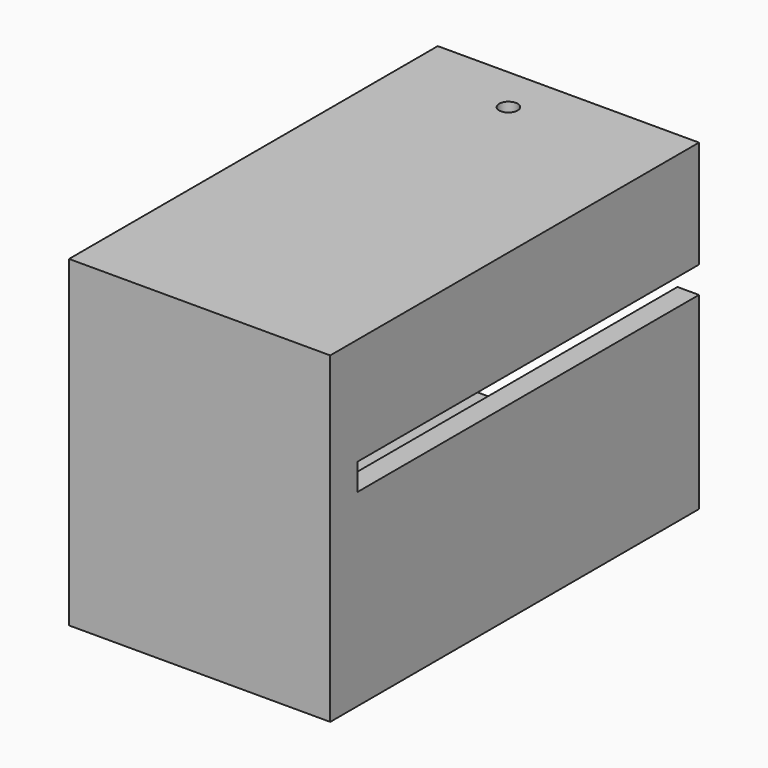
from build123d import *

# Parameters (mm, degrees)
SKETCH012_W     = 17
SKETCH012_H     = 21
PAD009_DEPTH    = 30
SKETCH013_W     = 13.1
SKETCH013_H     = 17
POCKET001_DEPTH = 26.7
SKETCH014_W     = 11.5
SKETCH014_H     = 1.2
SKETCH014_W_2   = 3.205285
SKETCH014_H_2   = 1.736194
POCKET002_DEPTH = 27.8
SKETCH016_R     = 0.6
POCKET003_DEPTH = 27
SKETCH022_W     = 0.6
SKETCH022_H     = 3
POCKET005_DEPTH = 3


with BuildPart() as part:
    # Sketch012 → Pad009 (new body)
    with BuildSketch(Plane.XZ):
        with Locations((1.5, 2)):
            Rectangle(SKETCH012_W, SKETCH012_H)
    extrude(amount=PAD009_DEPTH)

    # Sketch013 (on Face5 of Pad009) → Pocket001 (cut)
    with BuildSketch(Plane(origin=(0, 0, 0), x_dir=(1, 0, 0), z_dir=(0, 1, 0))):
        with Locations((2.05, -2)):
            Rectangle(SKETCH013_W, SKETCH013_H)
    extrude(amount=-POCKET001_DEPTH, mode=Mode.SUBTRACT)

    # Sketch014 (on Face4 of Pocket001) → Pocket002 (cut)
    with BuildSketch(Plane(origin=(0, 0, 0), x_dir=(1, 0, 0), z_dir=(0, 1, 0))):
        Rectangle(SKETCH014_W, SKETCH014_H)
        with Locations((9.189982, -4.640042)):
            Rectangle(SKETCH014_W_2, SKETCH014_H_2)
    extrude(amount=-POCKET002_DEPTH, mode=Mode.SUBTRACT)

    # Sketch016 (on Face6 of Pocket002) → Pocket003 (cut)
    with BuildSketch(Plane(origin=(0, 0, -8.5), x_dir=(1, 0, 0), z_dir=(0, 0, -1))):
        with Locations((0, 3)):
            Circle(SKETCH016_R)
    extrude(amount=-POCKET003_DEPTH, mode=Mode.SUBTRACT)

    # Sketch022 (on Face21 of Pocket003) → Pocket005 (cut)
    with BuildSketch(Plane(origin=(0, -26.7, 0), x_dir=(1, 0, 0), z_dir=(0, 1, 0))):
        with Locations((0, -9)):
            Rectangle(SKETCH022_W, SKETCH022_H)
    extrude(amount=-POCKET005_DEPTH, mode=Mode.SUBTRACT)


solid = part.part
